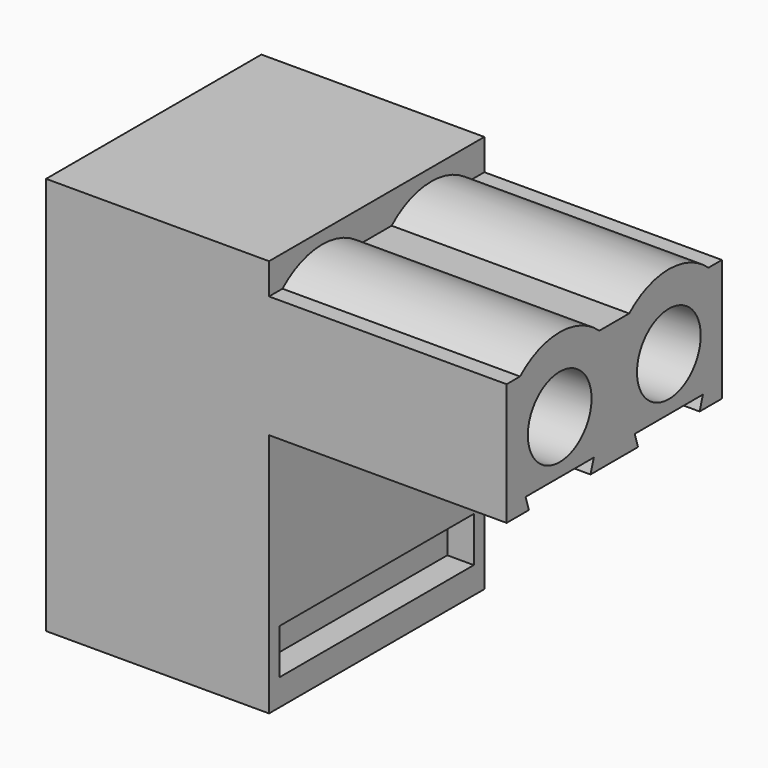
from build123d import *

# Parameters (mm, degrees)
F1_DEPTH  = 10.14
F2_R      = 1.91
F2_W      = 1
F2_H      = 2.7
F3_DEPTH  = 3
F4_W      = 2.5
F4_H      = 3.45
F5_DEPTH  = 5
F6_R      = 1.5
F7_DEPTH  = 2
F9_DEPTH  = 8.95
F11_DEPTH = 8.95
F12_R     = 0.75
F13_DEPTH = 5
F14_R     = 0.75
F15_DEPTH = 5
F16_W     = 9.15
F16_H     = 1.7
F17_DEPTH = 1
F20_DEPTH = 1


with BuildPart() as f1:
    # F0 (on Front) → F1 (new body)
    with BuildSketch(Plane.XZ):
        Polygon((8.4, 15), (0, 15), (0, 0), (8.4, 0), (8.4, 9.23), (17.35, 9.23), (17.35, 13.83), (8.4, 13.83), align=None)
    extrude(amount=F1_DEPTH)

    # F2 (on face) → F3 (cut)
    with BuildSketch(Plane(origin=(0, 0, 0), x_dir=(1, 0, 0), z_dir=(0, 0, -1))):
        with Locations((5.14, 2.51)):
            Circle(F2_R)
        with Locations((5.14, 7.63)):
            Circle(F2_R)
        with Locations((1.5, 2.55)):
            Rectangle(F2_W, F2_H)
        with Locations((1.5, 7.59)):
            Rectangle(F2_W, F2_H)
    extrude(amount=-F3_DEPTH, mode=Mode.SUBTRACT)

    # F4 (on face) → F5 (cut)
    with BuildSketch(Plane(origin=(0, 0, 0), x_dir=(0, -1, 0), z_dir=(-1, 0, 0))):
        with Locations((7.69, 10.075)):
            Rectangle(F4_W, F4_H)
        with Locations((2.45, 10.075)):
            Rectangle(F4_W, F4_H)
    extrude(amount=-F5_DEPTH, mode=Mode.SUBTRACT)

    # F6 (on face) → F7 (cut)
    with BuildSketch(Plane.YZ.offset(17.35)):
        with Locations((-2.5, 11.73)):
            Circle(F6_R)
        with Locations((-7.64, 11.73)):
            Circle(F6_R)
    extrude(amount=-F7_DEPTH, mode=Mode.SUBTRACT)

    # F8 (on face) → F9 (cut)
    with BuildSketch(Plane.YZ.offset(17.35)):
        Polygon((-9.2476493944, 9.73), (-9.09, 9.23), (-7.64, 9.23), (-7.64, 9.73), align=None)
        Polygon((-7.64, 9.73), (-7.64, 9.23), (-6.19, 9.23), (-6.0323506056, 9.73), align=None)
        Polygon((-1.05, 9.23), (-0.8923506056, 9.73), (-4.1076493944, 9.73), (-3.95, 9.23), align=None)
    extrude(amount=-F9_DEPTH, mode=Mode.SUBTRACT)

    # F10 (on face) → F11 (join, through all)
    with BuildSketch(Plane.YZ.offset(17.35)):
        with BuildLine():
            Line((-9.5071100664, 13.83), (-5.7728899336, 13.83))
            ThreePointArc((-5.7728899336, 13.83), (-7.64, 14.54), (-9.5071100664, 13.83))
        make_face()
        with BuildLine():
            ThreePointArc((-0.6328899336, 13.83), (-2.5, 14.54), (-4.3671100664, 13.83))
            Line((-4.3671100664, 13.83), (-0.6328899336, 13.83))
        make_face()
    extrude(amount=-F11_DEPTH)

    # F12 (on face) → F13 (cut)
    with BuildSketch(Plane.YZ.offset(15.35)):
        with Locations((-7.64, 11.73)):
            Circle(F12_R)
    extrude(amount=-F13_DEPTH, mode=Mode.SUBTRACT)

    # F14 (on face) → F15 (cut)
    with BuildSketch(Plane.YZ.offset(15.35)):
        with Locations((-2.5, 11.73)):
            Circle(F14_R)
    extrude(amount=-F15_DEPTH, mode=Mode.SUBTRACT)

    # F16 (on face) → F17 (cut)
    with BuildSketch(Plane.YZ.offset(8.4)):
        with Locations((-5.07, 1.85)):
            Rectangle(F16_W, F16_H)
    extrude(amount=-F17_DEPTH, mode=Mode.SUBTRACT)

    # F19 (on offset) → F20 (join)
    with BuildSketch(Plane(origin=(0, -3.25, 0), x_dir=(-1, 0, 0), z_dir=(0, 1, 0))):
        Polygon((-8.4, 6.43), (-8.4, 8.23), (-13.4703818727, 8.23), (-13.803715206, 8.6026779962), (-14.4, 8.0693446629), (-13.4, 6.9513106742), align=None)
    extrude(amount=-F20_DEPTH)


solid = f1.part
